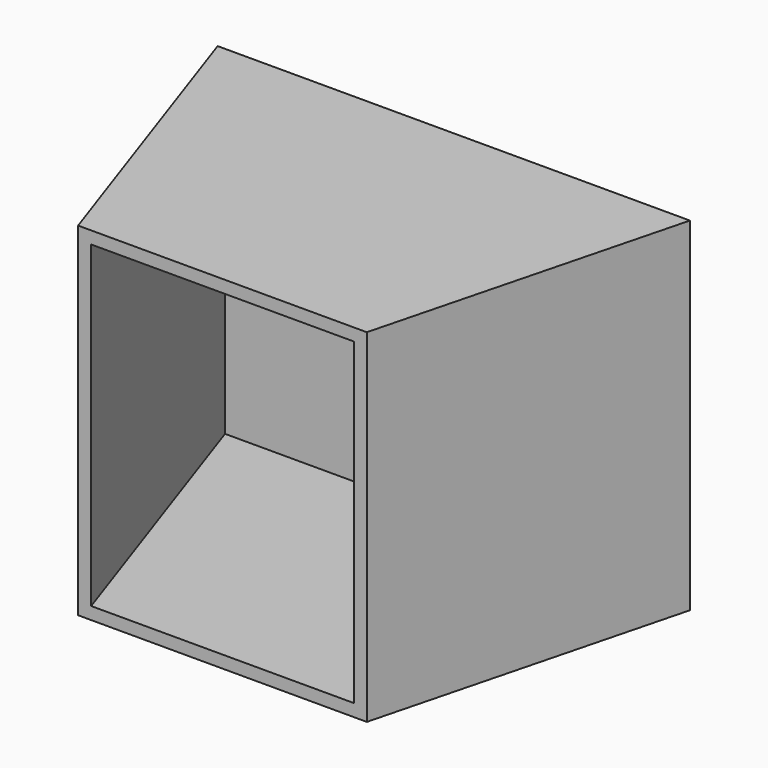
from build123d import *

# Parameters (mm, degrees)
F1_DEPTH = 70.358
F3_T     = -2.54


with BuildPart() as f1:
    # F0 (on Top) → F1 (new body)
    with BuildSketch(Plane.XY):
        Polygon((48.111744, 37.449617), (-48.749772, 37.449617), (-27.31619, -25.113272), (31.89826, -25.113272), align=None)
    extrude(amount=F1_DEPTH)

    # F3
    f3_openings = [f1.faces().sort_by_distance(p)[0] for p in [
        (2.291035, -25.113272, 35.179),
    ]]
    offset(amount=F3_T, openings=f3_openings)


solid = f1.part
